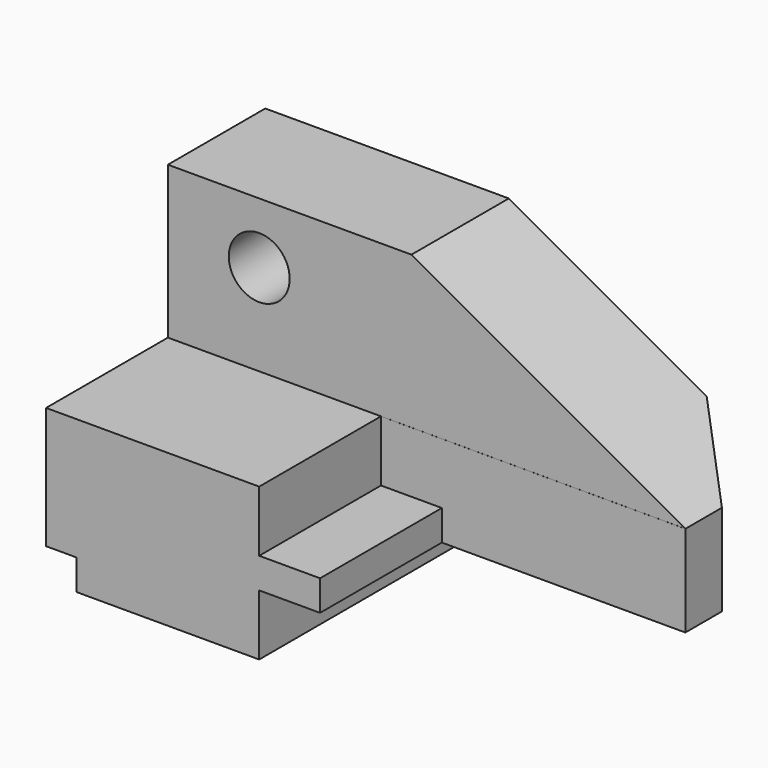
from build123d import *

# Parameters (mm, degrees)
F0_W      = 107.95
F0_H      = 63.5
F1_DEPTH  = 57.15
F2_W      = 6.35
F2_H      = 6.35
F3_DEPTH  = 57.151
F4_W      = 63.5
F4_H      = 12.7
F5_DEPTH  = 57.151
F6_W      = 31.7601591736
F6_H      = 31.75
F7_DEPTH  = 107.951
F8_W      = 12.7
F8_H      = 12.7
F9_DEPTH  = 31.75
F10_W     = 50.8
F10_H     = 12.7
F11_DEPTH = 31.75
F13_DEPTH = 57.151
F15_DEPTH = 50.801
F16_R     = 6.35
F17_DEPTH = 25.3908408264
F18_W     = 50.8
F18_H     = 31.75
F19_DEPTH = 19.051


with BuildPart() as f1:
    # F0 (on Front) → F1 (new body)
    with BuildSketch(Plane.XZ):
        with Locations((53.975, 31.75)):
            Rectangle(F0_W, F0_H)
    extrude(amount=F1_DEPTH)

    # F2 (on face) → F3 (cut, through all)
    with BuildSketch(Plane.XZ.offset(57.15)):
        with Locations((3.175, 3.175)):
            Rectangle(F2_W, F2_H)
    extrude(amount=-F3_DEPTH, mode=Mode.SUBTRACT)

    # F4 (on face) → F5 (cut, through all)
    with BuildSketch(Plane.XZ.offset(57.15)):
        with Locations((76.2, 6.35)):
            Rectangle(F4_W, F4_H)
    extrude(amount=-F5_DEPTH, mode=Mode.SUBTRACT)

    # F6 (on face) → F7 (cut, through all)
    with BuildSketch(Plane.YZ.offset(107.95)):
        with Locations((-41.2699204132, 47.625)):
            Rectangle(F6_W, F6_H)
    extrude(amount=-F7_DEPTH, mode=Mode.SUBTRACT)

    # F8 (on face) → F9 (cut)
    with BuildSketch(Plane.XZ.offset(57.15)):
        with Locations((50.8, 25.4)):
            Rectangle(F8_W, F8_H)
    extrude(amount=-F9_DEPTH, mode=Mode.SUBTRACT)

    # F10 (on face) → F11 (cut)
    with BuildSketch(Plane.XZ.offset(57.15)):
        with Locations((82.55, 25.4)):
            Rectangle(F10_W, F10_H)
    extrude(amount=-F11_DEPTH, mode=Mode.SUBTRACT)

    # F12 (on face) → F13 (cut, through all)
    with BuildSketch(Plane(origin=(0, 0, 0), x_dir=(-1, 0, 0), z_dir=(0, 1, 0))):
        Polygon((-107.95, 63.5), (-107.95, 31.75), (-50.8, 63.5), align=None)
    extrude(amount=-F13_DEPTH, mode=Mode.SUBTRACT)

    # F14 (on face) → F15 (cut, through all)
    with BuildSketch(Plane(origin=(0, 0, 12.7), x_dir=(1, 0, 0), z_dir=(0, 0, -1))):
        Polygon((92.075, 0), (107.95, 0), (107.95, 15.875), align=None)
    extrude(amount=-F15_DEPTH, mode=Mode.SUBTRACT)

    # F16 (on face) → F17 (cut, through all)
    with BuildSketch(Plane.XZ.offset(25.3898408264)):
        with Locations((19.05, 50.8)):
            Circle(F16_R)
    extrude(amount=-F17_DEPTH, mode=Mode.SUBTRACT)

    # F18 (on face) → F19 (cut, through all)
    with BuildSketch(Plane.XY.offset(19.05)):
        with Locations((82.55, -41.275)):
            Rectangle(F18_W, F18_H)
    extrude(amount=-F19_DEPTH, mode=Mode.SUBTRACT)


solid = f1.part
